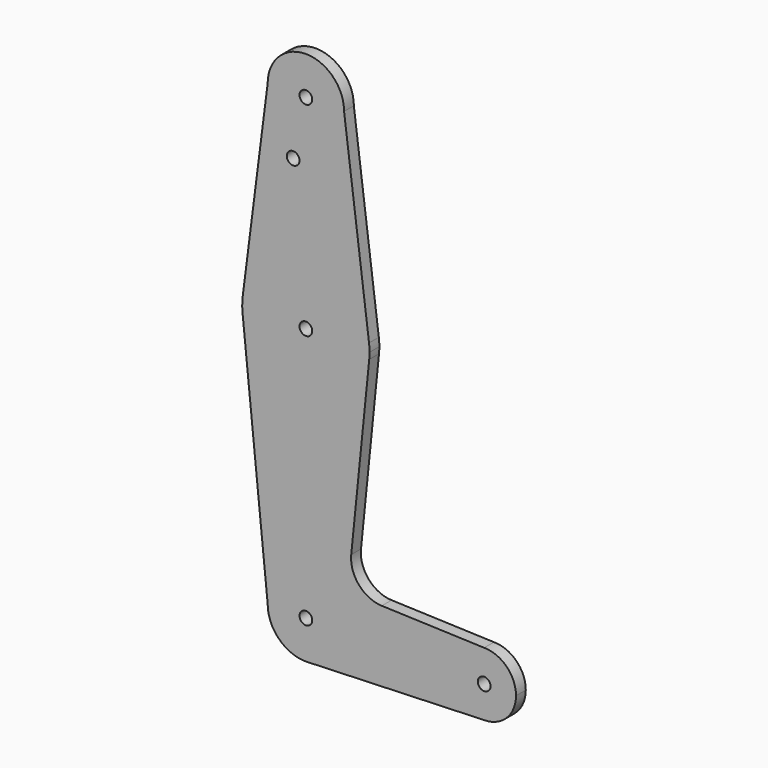
from build123d import *

# Parameters (mm, degrees)
F0_R     = 1.5875
F1_DEPTH = 3.048


with BuildPart() as f1:
    # F0 (on Front) → F1 (new body)
    with BuildSketch(Plane.XZ):
        with BuildLine():
            ThreePointArc((15.794203, 61.90038), (0, 47.625), (-15.794203, 61.90038))
            Line((-15.794203, 61.90038), (-9.525, 0))
            ThreePointArc((-9.525, 0), (0, 9.525), (9.525, 0))
            ThreePointArc((9.525, 0), (6.854788, -6.613434), (0.341271, -9.518884))
            Line((0.341271, -9.518884), (44.45, -7.9375))
            ThreePointArc((44.45, -7.9375), (36.5125, 0), (44.45, 7.9375))
            Line((44.45, 7.9375), (18.932251, 8.852361))
            ThreePointArc((18.932251, 8.852361), (13.224458, 11.573096), (11.307362, 17.598546))
            Line((11.307362, 17.598546), (15.794203, 61.90038))
        make_face()
        with BuildLine():
            Line((15.747457, 65.508289), (9.525, 114.3))
            ThreePointArc((9.525, 114.3), (0, 104.775), (-9.525, 114.3))
            Line((-9.525, 114.3), (-15.747457, 65.508289))
            ThreePointArc((-15.747457, 65.508289), (0, 79.375), (15.747457, 65.508289))
        make_face()
        with Locations((-3.175, 99.886943)):
            Circle(F0_R, mode=Mode.SUBTRACT)
        with BuildLine():
            ThreePointArc((15.875, 63.5), (15.843082, 64.506168), (15.747457, 65.508289))
            ThreePointArc((15.747457, 65.508289), (0, 79.375), (-15.747457, 65.508289))
            ThreePointArc((-15.747457, 65.508289), (-15.873668, 63.705667), (-15.794203, 61.90038))
            ThreePointArc((-15.794203, 61.90038), (0, 47.625), (15.794203, 61.90038))
            ThreePointArc((15.794203, 61.90038), (15.854788, 62.699171), (15.875, 63.5))
        make_face()
        with Locations((0, 63.5)):
            Circle(F0_R, mode=Mode.SUBTRACT)
        with BuildLine():
            ThreePointArc((-9.525, 114.3), (0, 104.775), (9.525, 114.3))
            ThreePointArc((9.525, 114.3), (0, 123.825), (-9.525, 114.3))
        make_face()
        with Locations((0, 114.3)):
            Circle(F0_R, mode=Mode.SUBTRACT)
        with BuildLine():
            ThreePointArc((9.525, 0), (0, 9.525), (-9.525, 0))
            ThreePointArc((-9.525, 0), (-6.613434, -6.854788), (0.341271, -9.518884))
            ThreePointArc((0.341271, -9.518884), (6.854788, -6.613434), (9.525, 0))
        make_face()
        Circle(F0_R, mode=Mode.SUBTRACT)
        with BuildLine():
            ThreePointArc((44.45, 7.9375), (36.5125, 0), (44.45, -7.9375))
            ThreePointArc((44.45, -7.9375), (50.06266, -5.61266), (52.3875, 0))
            ThreePointArc((52.3875, 0), (50.06266, 5.61266), (44.45, 7.9375))
        make_face()
        with Locations((44.45, 0)):
            Circle(F0_R, mode=Mode.SUBTRACT)
    extrude(amount=F1_DEPTH)


solid = f1.part
